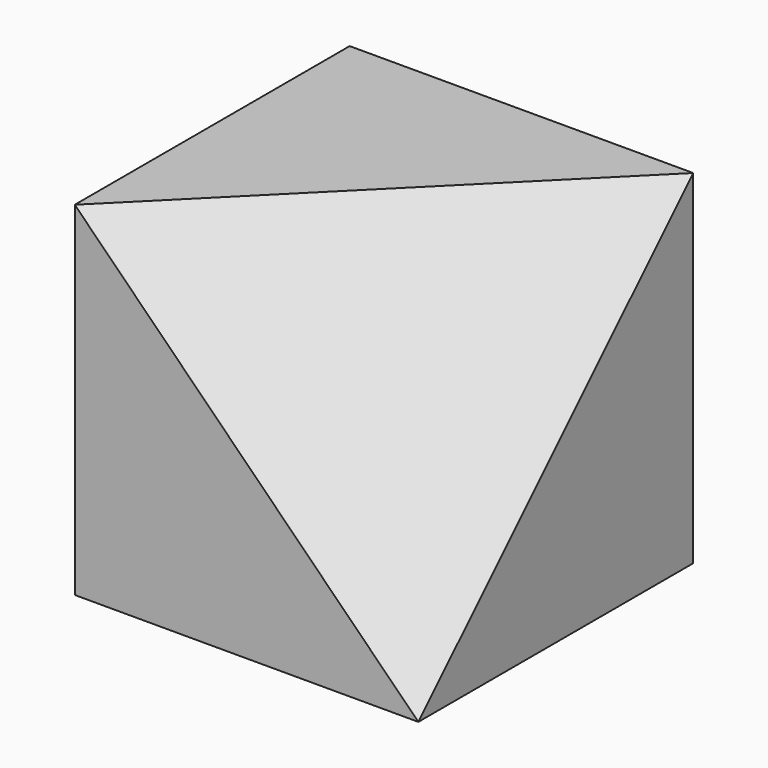
from build123d import *

# Parameters (mm, degrees)
F0_W     = 60
F0_H     = 60
F1_DEPTH = 60
F4_DEPTH = 34.6420161514


with BuildPart() as f1:
    # F0 (on Top) → F1 (new body)
    with BuildSketch(Plane.XY):
        with Locations((30, 30)):
            Rectangle(F0_W, F0_H)
    extrude(amount=F1_DEPTH)

    # F3 (on 3pt) → F4 (cut, through all)
    with BuildSketch(Plane(origin=(20, -20, 20), x_dir=(0.8164965809, 0.4082482905, -0.4082482905), z_dir=(0.5773502692, -0.5773502692, 0.5773502692))):
        Polygon((48.9897948557, 84.8528137424), (-24.4948974278, 42.4264068712), (48.9897948557, 0), align=None)
    extrude(amount=F4_DEPTH, mode=Mode.SUBTRACT)


solid = f1.part
